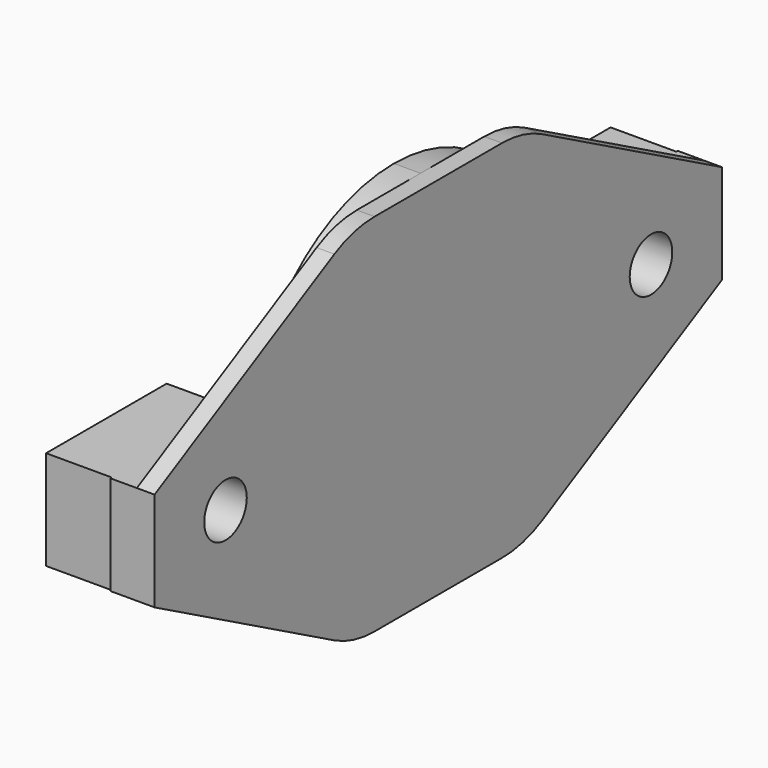
from build123d import *

# Parameters (mm, degrees)
PAD099_DEPTH    = 1
SKETCH286_R     = 0.95
PAD100_DEPTH    = 2.5
PAD101_DEPTH    = 1.5
SKETCH288_W     = 8.5
SKETCH288_H     = 5.6
PAD102_DEPTH    = 5.2
SKETCH289_R     = 1.5
POCKET169_DEPTH = 15
FILLET002_R     = 6
FILLET004_R     = 2


with BuildPart() as part:
    # Sketch277 → Pad099 (new body)
    with BuildSketch(Plane.YZ.offset(57.2)):
        Polygon((-20, 2.8), (-20, -2.8), (-6, -10.3), (0, -10.3), (0, 10.3), (-6, 10.3), align=None)
    pad099 = extrude(amount=PAD099_DEPTH)

    # Sketch286 (on Face7 of Pad099) → Pad100 (join)
    with BuildSketch(Plane(origin=(57.2, 0, 0), x_dir=(0, 1, 0), z_dir=(-1, 0, 0))):
        with Locations((-6, 0)):
            Circle(SKETCH286_R)
    pad100 = extrude(amount=PAD100_DEPTH)

    # Sketch287 (on Face4 of Pad100) → Pad101 (join)
    with BuildSketch(Plane(origin=(57.2, 0, 0), x_dir=(0, 1, 0), z_dir=(-1, 0, 0))):
        with BuildLine():
            Line((-20, -2.8), (-20, 2.8))
            Line((-20, 2.8), (-6, 10.3))
            Line((-6, 10.3), (0, 10.3))
            Line((0, 9.1), (0, 10.3))
            ThreePointArc((0, 9.1), (-9.1, 0), (0, -9.1))
            Line((0, -9.1), (0, -10.3))
            ThreePointArc((-9.9121138008, -2.8), (-6.2149014473, -8.2137080542), (0, -10.3))
            Line((-20, -2.8), (-9.9121138008, -2.8))
        make_face()
    pad101 = extrude(amount=PAD101_DEPTH)

    # Sketch288 (on Face18 of Pad101) → Pad102 (join)
    with BuildSketch(Plane(origin=(57.2, 0, 0), x_dir=(0, 1, 0), z_dir=(-1, 0, 0))):
        with Locations((-15.65, 0)):
            Rectangle(SKETCH288_W, SKETCH288_H)
    pad102 = extrude(amount=PAD102_DEPTH)

    # Sketch289 (on Face5 of Pad102) → Pocket169 (cut, symmetric)
    with BuildSketch(Plane.YZ.offset(58.2)):
        with Locations((-15, 0)):
            Circle(SKETCH289_R)
    pocket169 = extrude(amount=POCKET169_DEPTH, both=True, mode=Mode.SUBTRACT)

    # Mirrored011: Pad099, Pad100, Pad101, Pad102, Pocket169 across Sketch277 V_Axis
    add(pad099.mirror(Plane(origin=(57.2, 0, 0), x_dir=(1, 0, 0), z_dir=(0, 1, 0))))
    add(pad100.mirror(Plane(origin=(57.2, 0, 0), x_dir=(1, 0, 0), z_dir=(0, 1, 0))))
    add(pad101.mirror(Plane(origin=(57.2, 0, 0), x_dir=(1, 0, 0), z_dir=(0, 1, 0))))
    add(pad102.mirror(Plane(origin=(57.2, 0, 0), x_dir=(1, 0, 0), z_dir=(0, 1, 0))))
    add(pocket169.mirror(Plane(origin=(57.2, 0, 0), x_dir=(1, 0, 0), z_dir=(0, 1, 0))), mode=Mode.SUBTRACT)

    # Fillet002
    fillet002_edges = [part.edges().sort_by_distance(p)[0] for p in [
        (57.7, -6, -10.3),
        (56.45, -6, -10.3),
        (57.7, 6, -10.3),
        (56.45, 6, -10.3),
        (57.7, -6, 10.3),
        (57.7, 6, 10.3),
    ]]
    fillet(fillet002_edges, radius=FILLET002_R)

    # Fillet004
    fillet004_edges = [part.edges().sort_by_distance(p)[0] for p in [
        (53.85, 11.4, -2.8),
        (53.85, -11.4, -2.8),
    ]]
    fillet(fillet004_edges, radius=FILLET004_R)


solid = part.part
